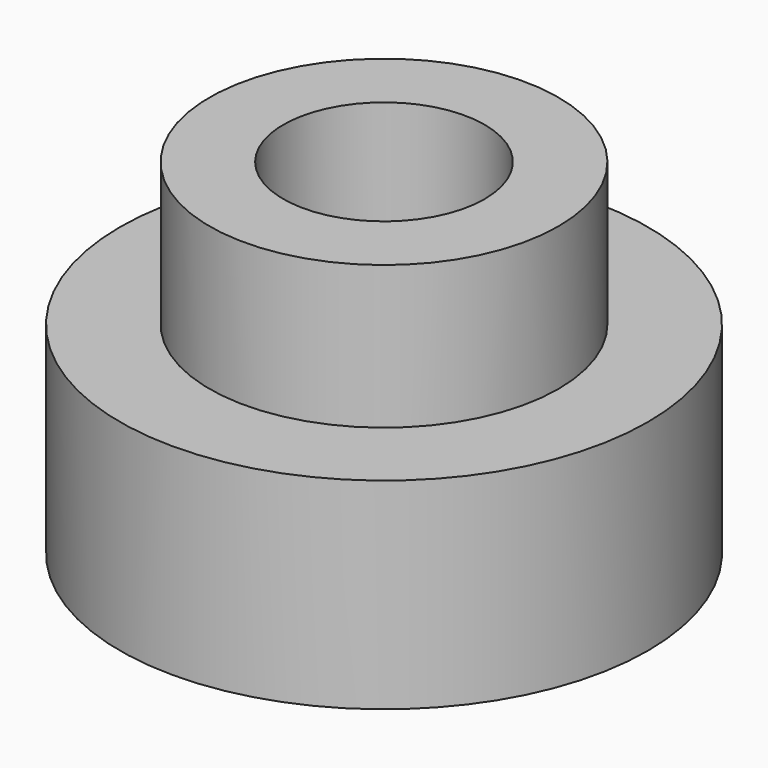
from build123d import *


with BuildPart() as part:
    # Sketch → Revolution (revolve)
    with BuildSketch(Plane.XZ):
        Polygon((2.25, -4.5), (2.25, 3.2), (3.9, 3.2), (3.9, 0), (5.9, 0), (5.9, -4.5), align=None)
    revolve(axis=Axis((0, 0, 0), (0, 0, 1)))


solid = part.part
